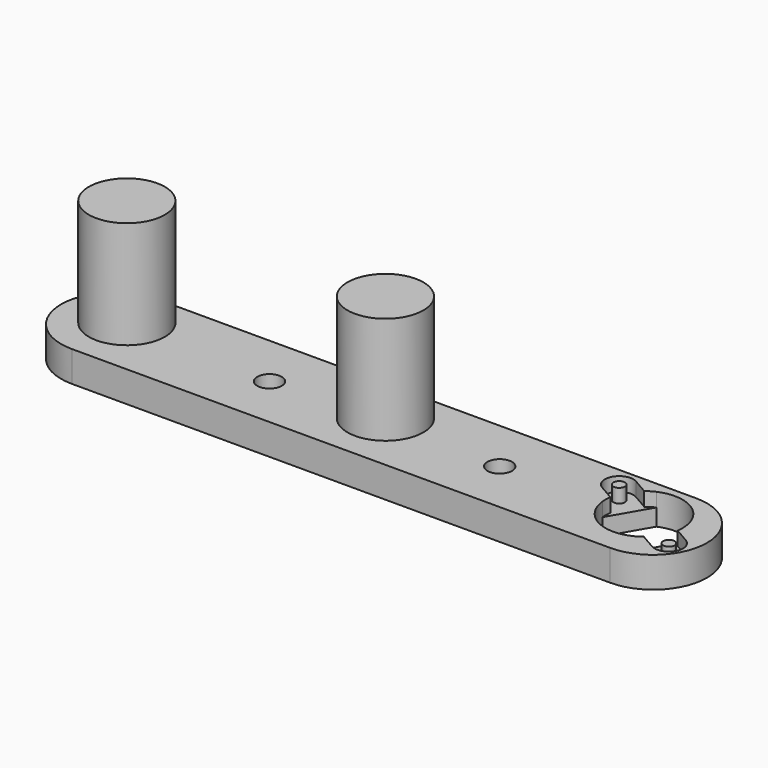
from build123d import *

# Parameters (mm, degrees)
CYLINDER018_R            = 1.6
CYLINDER018_DEPTH        = 10
CYLINDER017_R            = 1.6
CYLINDER017_DEPTH        = 10
PAD_DEPTH                = 18
SKETCH002_R              = 0.75
PAD001_DEPTH             = 1.8
CYLINDER_R               = 5.025
CYLINDER_DEPTH           = 1.8
BODY_PLACEMENT_ANGLE     = 60
CYLINDER006_R            = 4.95
CYLINDER006_DEPTH        = 14
EXTRUDE_DEPTH            = 4
CYLINDER005_R            = 4.95
CYLINDER005_DEPTH        = 14
CLONE005_PLACEMENT_ANGLE = 180


with BuildPart() as cylinder018:
    # Cylinder018 → Cylinder018 (new body)
    with BuildSketch(Plane(origin=(-30, 0, -3), x_dir=(1, 0, 0), z_dir=(0, 0, 1))):
        Circle(CYLINDER018_R)
    extrude(amount=CYLINDER018_DEPTH)


with BuildPart() as fusion021:
    # Cylinder017 → Cylinder017 (new body)
    with BuildSketch(Plane.XY.offset(-3)):
        Circle(CYLINDER017_R)
    extrude(amount=CYLINDER017_DEPTH)

    # Fusion019: union Cylinder018
    add(cylinder018.part)


with BuildPart() as fusion021_1:
    # Fusion019 placement: moved
    add(fusion021.part.moved(Location((-18, 1, 0))))


with BuildPart() as motorbody:
    # Sketch001 → Pad (new body)
    with BuildSketch(Plane.XY):
        with BuildLine():
            ThreePointArc((-2.940238, 4.075), (-5.025, 0), (-2.940238, -4.075))
            Line((-2.940238, -4.075), (2.940238, -4.075))
            ThreePointArc((2.940238, -4.075), (5.025, 0), (2.940238, 4.075))
            Line((-2.940238, 4.075), (2.940238, 4.075))
        make_face()
    extrude(amount=PAD_DEPTH)

    # Sketch002 → Pad001 (join)
    with BuildSketch(Plane.XY):
        with BuildLine():
            ThreePointArc((1.85, 6.95), (0, 8.8), (-1.85, 6.95))
            Line((-1.85, 6.95), (-1.85, -6.950003))
            ThreePointArc((-1.85, -6.950003), (2e-06, -8.8), (1.85, -6.949999))
            Line((1.85, 6.95), (1.85, -6.949999))
        make_face()
        with Locations((0, 6.95)):
            Circle(SKETCH002_R, mode=Mode.SUBTRACT)
        with Locations((0, -6.95)):
            Circle(SKETCH002_R, mode=Mode.SUBTRACT)
    extrude(amount=PAD001_DEPTH)

    # Cylinder → Cylinder (join)
    with BuildSketch(Plane.XY):
        Circle(CYLINDER_R)
    extrude(amount=CYLINDER_DEPTH)


with BuildPart() as motorbody_1:
    # Body placement: moved
    add(motorbody.part.rotate(Axis((0, 0, 0), (0, 0, -1)), BODY_PLACEMENT_ANGLE))


with BuildPart() as cylinder006:
    # Cylinder006 → Cylinder006 (new body)
    with BuildSketch(Plane(origin=(-33.693581, 0, -14), x_dir=(1, 0, 0), z_dir=(0, 0, 1))):
        Circle(CYLINDER006_R)
    extrude(amount=CYLINDER006_DEPTH)


with BuildPart() as extrude_body:
    # Sketch009 → Extrude (new body)
    with BuildSketch(Plane.XY):
        with BuildLine():
            ThreePointArc((-68.158607, 8), (-75.158607, 1), (-68.158607, -6))
            Line((-68.158607, -6), (2, -6))
            ThreePointArc((2, -6), (9, 1), (2, 8))
            Line((-68.158607, 8), (2, 8))
        make_face()
    extrude(amount=EXTRUDE_DEPTH)


with BuildPart() as rightdriveskid_printable:
    # Cylinder005 → Cylinder005 (new body)
    with BuildSketch(Plane(origin=(-67.3872, 0, -14), x_dir=(1, 0, 0), z_dir=(0, 0, 1))):
        Circle(CYLINDER005_R)
    extrude(amount=CYLINDER005_DEPTH)

    # Fusion005: union Cylinder006, Extrude body
    add(cylinder006.part)
    add(extrude_body.part)

    # Cut002: cut MotorBody
    add(motorbody_1.part, mode=Mode.SUBTRACT)

    # Cut011: cut Fusion021
    add(fusion021_1.part, mode=Mode.SUBTRACT)


with BuildPart() as rightdriveskid_printable_1:
    # Clone005 placement: moved
    add(rightdriveskid_printable.part.moved(Location((0, -36, 4))).rotate(Axis((0, -36, 4), (1, 0, 0)), CLONE005_PLACEMENT_ANGLE))


solid = rightdriveskid_printable_1.part
